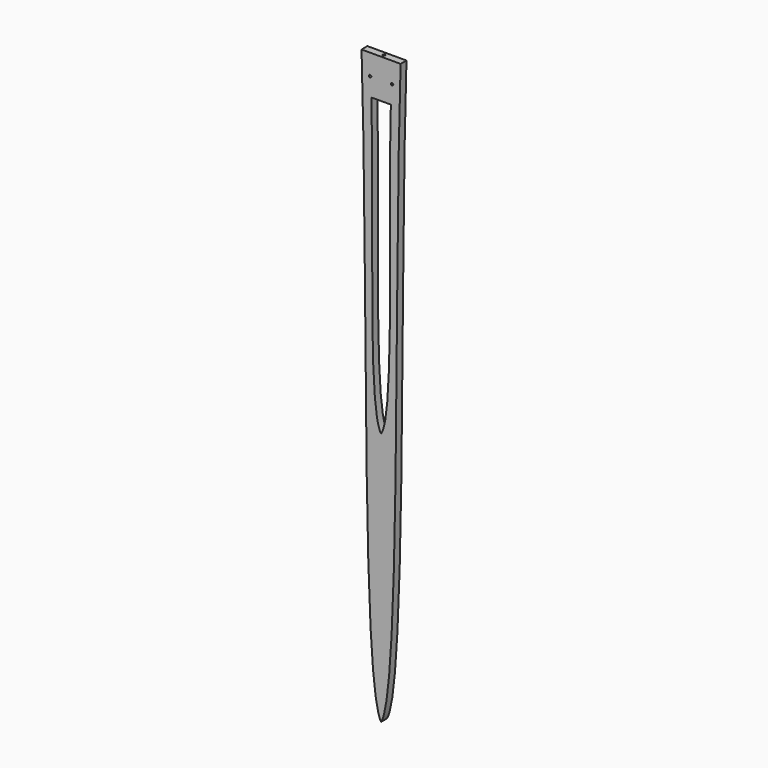
from build123d import *

# Parameters (mm, degrees)
F0_R     = 2.5
F1_DEPTH = 15
F2_R     = 2.5
F3_DEPTH = 80


with BuildPart() as f1:
    # F0 (on Front) → F1 (new body)
    with BuildSketch(Plane.XZ):
        with BuildLine():
            Line((20, 1254.418962), (-60, 1254.418962))
            add(Edge.make_bspline(
                [(-60, 1254.418962), (-46.666667, 854.418962), (-60, 117.029428), (-20, 54.418962)],
                knots=[0, 0, 0, 0, 1200.666482, 1200.666482, 1200.666482, 1200.666482], degree=3))
            add(Edge.make_bspline(
                [(20, 1254.418962), (6.666667, 854.418962), (20, 117.029428), (-20, 54.418962)],
                knots=[0, 0, 0, 0, 1200.666482, 1200.666482, 1200.666482, 1200.666482], degree=3))
        make_face()
        with Locations((-42.5, 1211.918962)):
            Circle(F0_R, mode=Mode.SUBTRACT)
        with BuildLine():
            add(Edge.make_bspline(
                [(-40, 1174.418962), (-33.333333, 974.418962), (-48.633179, 614.339888), (-20, 574.418962)],
                knots=[0, 0, 0, 0, 600.333241, 600.333241, 600.333241, 600.333241], degree=3))
            Line((-40, 1174.418962), (0, 1174.418962))
            add(Edge.make_bspline(
                [(0, 1174.418962), (-6.666667, 974.418962), (8.633179, 614.339888), (-20, 574.418962)],
                knots=[0, 0, 0, 0, 600.333241, 600.333241, 600.333241, 600.333241], degree=3))
        make_face(mode=Mode.SUBTRACT)
        with Locations((2.5, 1211.918962)):
            Circle(F0_R, mode=Mode.SUBTRACT)
    extrude(amount=F1_DEPTH)

    # F2 (on face) → F3 (cut)
    with BuildSketch(Plane.XY.offset(1254.418962)):
        with Locations((-20, -7.5)):
            Circle(F2_R)
    extrude(amount=-F3_DEPTH, mode=Mode.SUBTRACT)


solid = f1.part
